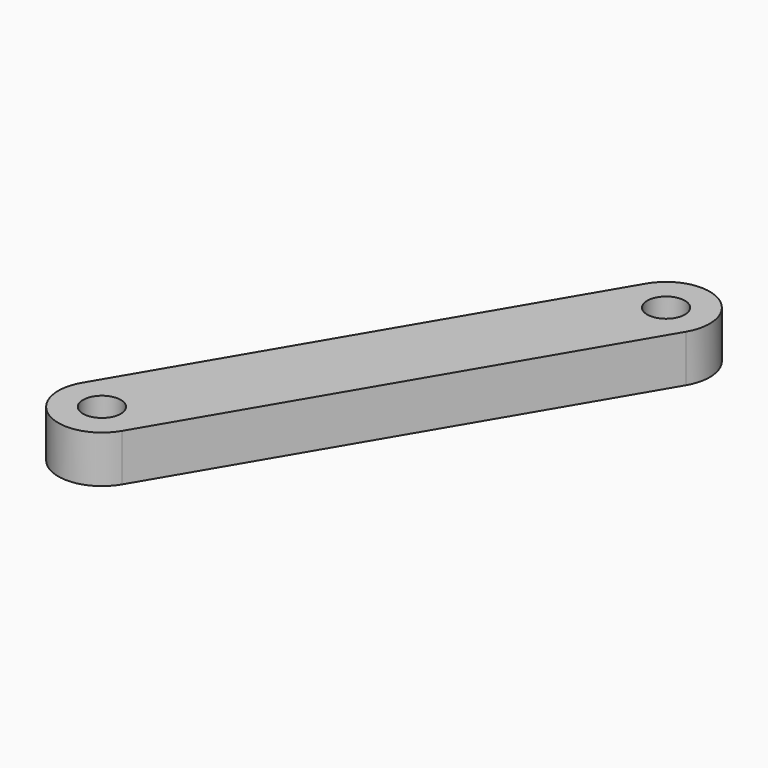
from build123d import *

# Parameters (mm, degrees)
CYLINDER005_R            = 1.6
CYLINDER005_DEPTH        = 30
PAD002_DEPTH             = 4
CLONE007_PLACEMENT_ANGLE = 59.5063808355
CLONE181_PLACEMENT_ANGLE = 1.91645e-05


with BuildPart() as finger_drill_master:
    # Cylinder005 → Cylinder005 (new body)
    with BuildSketch(Plane.XY.offset(-8)):
        Circle(CYLINDER005_R)
    extrude(amount=CYLINDER005_DEPTH)


with BuildPart() as clone006:
    # Clone006 base: copy of finger-drill-master
    add(finger_drill_master.part)


with BuildPart() as clone006_1:
    # Clone006 placement: moved
    add(clone006.part.moved(Location((40, 0, 0))))


with BuildPart() as fusion012:
    # Clone005 base: copy of finger-drill-master
    add(finger_drill_master.part)

    # Fusion012: union Clone006
    add(clone006_1.part)


with BuildPart() as clone_of_left_link:
    # Sketch002 → Pad002 (new body)
    with BuildSketch(Plane.XY):
        with BuildLine():
            ThreePointArc((0, 3.7), (-3.7, 0), (0, -3.7))
            Line((0, -3.7), (40, -3.7))
            ThreePointArc((40, -3.7), (43.7, 0), (40, 3.7))
            Line((0, 3.7), (40, 3.7))
        make_face()
    extrude(amount=PAD002_DEPTH)

    # Cut001: cut Fusion012
    add(fusion012.part, mode=Mode.SUBTRACT)


with BuildPart() as clone_of_left_link_1:
    # Clone007 placement: moved
    add(clone_of_left_link.part.moved(Location((187.1034801236, 214.4662976869, 4.3))).rotate(Axis((187.1034801236, 214.4662976869, 4.3), (0, 0, 1)), CLONE007_PLACEMENT_ANGLE))


with BuildPart() as clone_of_left_link_2:
    # Clone181 placement: moved
    add(clone_of_left_link_1.part.moved(Location((-14.0004083881, -699.0003602699, 7.3))).rotate(Axis((-14.0004083881, -699.0003602699, 7.3), (0, 0, 1)), CLONE181_PLACEMENT_ANGLE))


solid = clone_of_left_link_2.part
